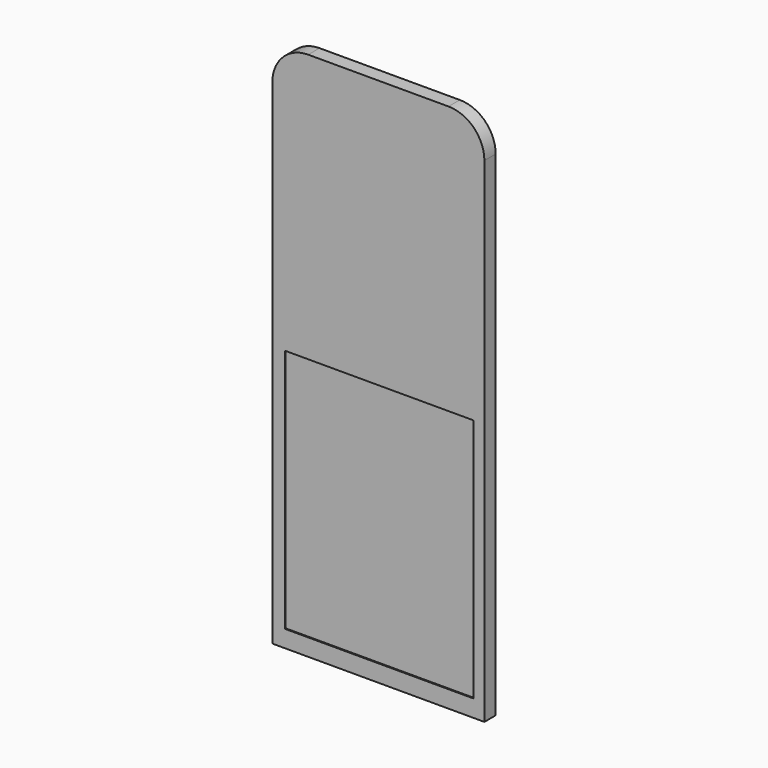
from build123d import *

# Parameters (mm, degrees)
F0_W     = 30
F0_H     = 75
F1_DEPTH = 2
F2_R     = 5.08
F3_W     = 26.70412
F3_H     = 34.643184
F4_DEPTH = 0.1524


with BuildPart() as f1:
    # F0 (on Front) → F1 (new body)
    with BuildSketch(Plane.XZ):
        with Locations((15, 37.5)):
            Rectangle(F0_W, F0_H)
    extrude(amount=F1_DEPTH)

    # F2
    f2_edges = [f1.edges().sort_by_distance(p)[0] for p in [
        (30, -1, 75),
        (0, -1, 75),
    ]]
    fillet(f2_edges, radius=F2_R)

    # F3 (on face) → F4 (cut)
    with BuildSketch(Plane.XZ.offset(2)):
        with Locations((15.126201, 19.738285)):
            Rectangle(F3_W, F3_H)
    extrude(amount=-F4_DEPTH, mode=Mode.SUBTRACT)


solid = f1.part
